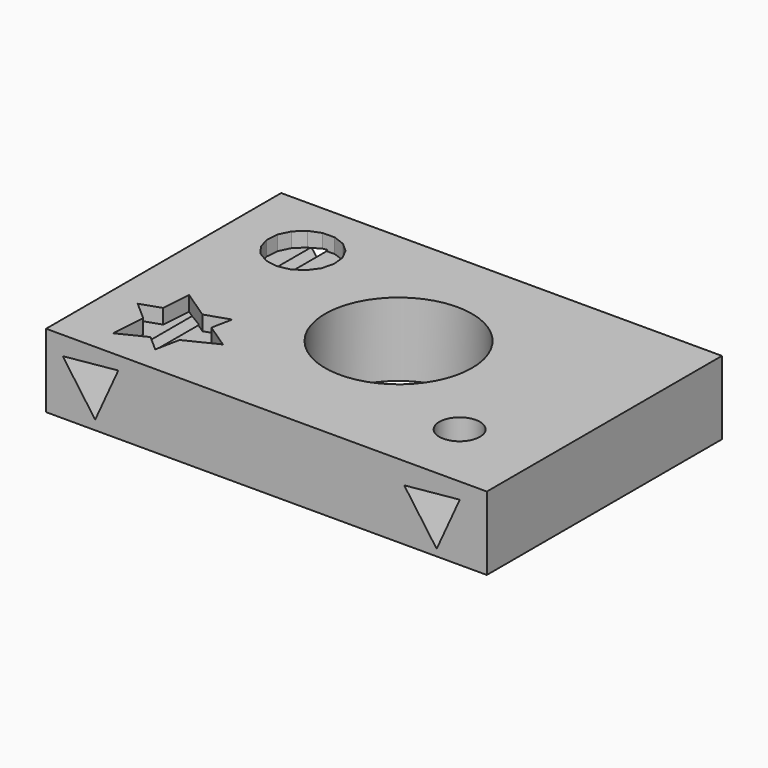
from build123d import *

# Parameters (mm, degrees)
F0_W     = 76.2
F0_H     = 50.8
F0_R     = 3.5123065567
F0_R_2   = 12.7
F1_DEPTH = 12.7
F3_DEPTH = 2.54
F5_DEPTH = 50.8


with BuildPart() as f1:
    # F0 (on Top) → F1 (new body)
    with BuildSketch(Plane.XY):
        with Locations((-56.0851351521, 13.4954131208)):
            Rectangle(F0_W, F0_H)
        with Locations((-32.2128646076, 0)):
            Circle(F0_R, mode=Mode.SUBTRACT)
        with Locations((-54.8016801476, 15.0355538353)):
            Circle(F0_R_2, mode=Mode.SUBTRACT)
    extrude(amount=F1_DEPTH)

    # F2 (on face) → F3 (cut)
    with BuildSketch(Plane.XY.offset(12.7)):
        Polygon((-76.9599948415, 2.2896753244), (-80.2915843955, 4.5198883678), (-85.6237872068, 2.7123675299), (-85.8894135812, -1.2879801805), (-81.6579532121, -5.0020428543), (-78.0607372837, -3.2319081873), align=None)
        Polygon((-80.2915843955, 4.5198883678), (-85.281946506, 7.8605071594), (-85.6237872068, 2.7123675299), align=None)
        Polygon((-76.2417182173, 5.8927201535), (-80.2915843955, 4.5198883678), (-76.9599948415, 2.2896753244), align=None)
        Polygon((-72.6724954905, -0.5804372213), (-76.9599948415, 2.2896753244), (-78.0607372837, -3.2319081873), align=None)
        Polygon((-78.8967631712, -7.4256110723), (-78.0607372837, -3.2319081873), (-81.6579532121, -5.0020428543), align=None)
        Polygon((-81.6579532121, -5.0020428543), (-85.8894135812, -1.2879801805), (-86.2872932638, -7.2800699381), align=None)
        Polygon((-85.8894135812, -1.2879801805), (-85.6237872068, 2.7123675299), (-89.1032538719, 1.5328909188), align=None)
        Polygon((-84.5270859868, 32.4696852051), (-86.0750453988, 31.0185304322), (-86.9942569946, 29.1061814688), (-87.1605761549, 26.990911639), (-86.5515405552, 24.9583998544), (-85.2494038283, 23.2831480942), (-83.4300267543, 22.1914083914), (-81.3391262888, 21.8306262424), (-79.2590901256, 22.2495272756), (-77.4708386744, 23.3915365852), (-76.2158852028, 25.102419486), (-75.6637181311, 27.1511117617), (-75.8889106819, 29.2609261685), (-76.8610493535, 31.1469205797), (-78.4488414314, 32.5543809995), (-80.4378467972, 33.2932220992), (-82.5594392549, 33.2636592941), align=None)
    extrude(amount=-F3_DEPTH, mode=Mode.SUBTRACT)

    # F4 (on face) → F5 (cut)
    with BuildSketch(Plane.XZ.offset(11.9045868792)):
        Polygon((-26.6611795004, 1.1490697949), (-22.6668310289, 9.9366341741), (-32.2742592543, 9.0020592324), align=None)
        Polygon((-85.6983154144, 1.6102975211), (-81.7039669428, 10.3978619002), (-91.3113951683, 9.4632869586), align=None)
    extrude(amount=-F5_DEPTH, mode=Mode.SUBTRACT)


solid = f1.part
